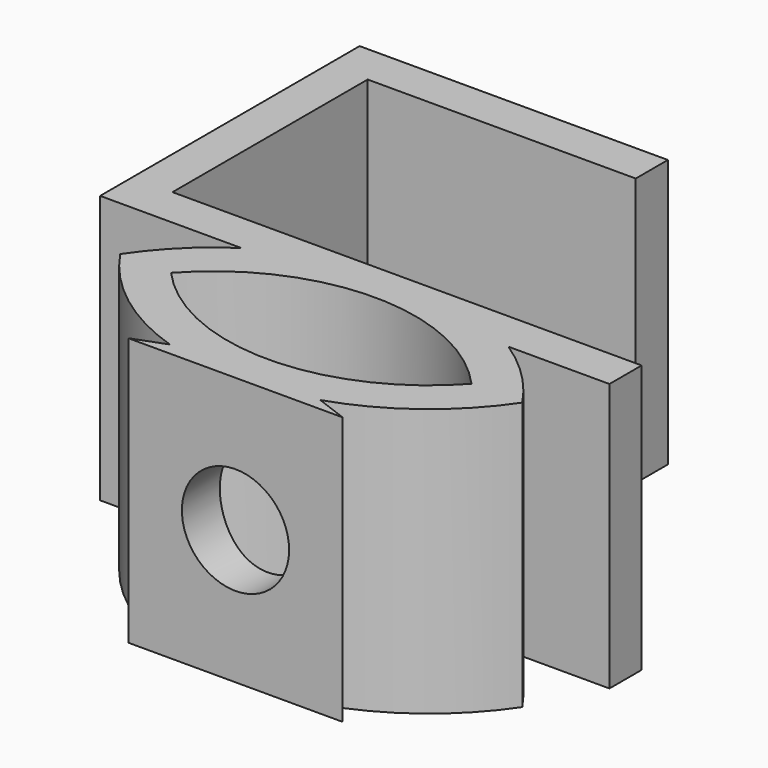
from build123d import *

# Parameters (mm, degrees)
F1_DEPTH = 20
F2_R     = 4
F2_R_2   = 1.5
F3_DEPTH = 4
F4_DEPTH = 25


with BuildPart() as f1:
    # F0 (on Top) → F1 (new body)
    with BuildSketch(Plane.XY):
        with BuildLine():
            Line((-20, 0), (0, 0))
            Line((0, 0), (0, 3))
            Line((0, 3), (-23, 3))
            Line((-23, 3), (-23, -21.2))
            Line((-23, -21.2), (-12.4687010187, -21.2))
            ThreePointArc((-12.4687010187, -21.2), (-7.7051657034, -18.9662531166), (-2.5, -18.2))
            Line((-2.5, -18.2), (-20, -18.2))
            Line((-20, -18.2), (-20, 0))
        make_face()
        with BuildLine():
            ThreePointArc((7.4687010187, -21.2), (2.7051657034, -18.9662531166), (-2.5, -18.2))
            ThreePointArc((-2.5, -18.2), (-7.7051657034, -18.9662531166), (-12.4687010187, -21.2))
            Line((-12.4687010187, -21.2), (-2.5000000655, -21.2))
            Line((-2.5000000655, -21.2), (7.4687010187, -21.2))
        make_face()
        with BuildLine():
            Line((15, -18.2), (-2.5, -18.2))
            ThreePointArc((-2.5, -18.2), (2.7051657034, -18.9662531166), (7.4687010187, -21.2))
            Line((7.4687010187, -21.2), (15, -21.2))
            Line((15, -21.2), (15, -18.2))
        make_face()
        with BuildLine():
            ThreePointArc((12.5, -26.2), (10.2322035658, -23.4505954339), (7.4687010187, -21.2))
            Line((7.4687010187, -21.2), (-2.5000000655, -21.2))
            ThreePointArc((-2.5000000655, -21.2), (3.6364688244, -22.5066773559), (8.7082558857, -26.2))
            ThreePointArc((8.7082558857, -26.2), (3.6364688543, -29.8933226308), (-2.5, -31.2))
            Line((-2.5, -31.2), (3.1142186431, -33.3053319912))
            ThreePointArc((3.1142186431, -33.3053319912), (8.4021987802, -30.538748835), (12.5, -26.2))
        make_face()
        with BuildLine():
            ThreePointArc((-2.5, -34.2), (0.3425288837, -33.974930751), (3.1142186431, -33.3053319912))
            Line((3.1142186431, -33.3053319912), (-2.5, -31.2))
            Line((-2.5, -31.2), (-8.1142186431, -33.3053319912))
            ThreePointArc((-8.1142186431, -33.3053319912), (-5.3425288837, -33.974930751), (-2.5, -34.2))
        make_face()
        with BuildLine():
            Line((-2.5000000655, -21.2), (-12.4687010187, -21.2))
            ThreePointArc((-12.4687010187, -21.2), (-15.2322035658, -23.4505954339), (-17.5, -26.2))
            ThreePointArc((-17.5, -26.2), (-13.4021987802, -30.538748835), (-8.1142186431, -33.3053319912))
            Line((-8.1142186431, -33.3053319912), (-2.5, -31.2))
            ThreePointArc((-2.5, -31.2), (-8.6364688543, -29.8933226308), (-13.7082558857, -26.2))
            ThreePointArc((-13.7082558857, -26.2), (-8.6364688842, -22.5066773825), (-2.5000000655, -21.2))
        make_face()
        with BuildLine():
            ThreePointArc((-2.5, -34.2), (-5.3425288837, -33.974930751), (-8.1142186431, -33.3053319912))
            Line((-8.1142186431, -33.3053319912), (-10.5, -34.2))
            Line((-10.5, -34.2), (-2.5, -34.2))
        make_face()
        with BuildLine():
            Line((5.5, -34.2), (3.1142186431, -33.3053319912))
            ThreePointArc((3.1142186431, -33.3053319912), (0.3425288837, -33.974930751), (-2.5, -34.2))
            Line((-2.5, -34.2), (5.5, -34.2))
        make_face()
    extrude(amount=F1_DEPTH)

    # F2 (on face) → F3 (cut)
    with BuildSketch(Plane.XZ.offset(34.2)):
        with Locations((-2.5, 10)):
            Circle(F2_R)
        with Locations((-2.5, 10)):
            Circle(F2_R_2, mode=Mode.SUBTRACT)
    extrude(amount=-F3_DEPTH, mode=Mode.SUBTRACT)

    # F4 (cut): a face of the model
    f4_faces = [f1.faces().sort_by_distance(p)[0] for p in [
        (-2.5, -34.2, 10),
    ]]
    extrude(f4_faces, amount=-F4_DEPTH, mode=Mode.SUBTRACT)


solid = f1.part
